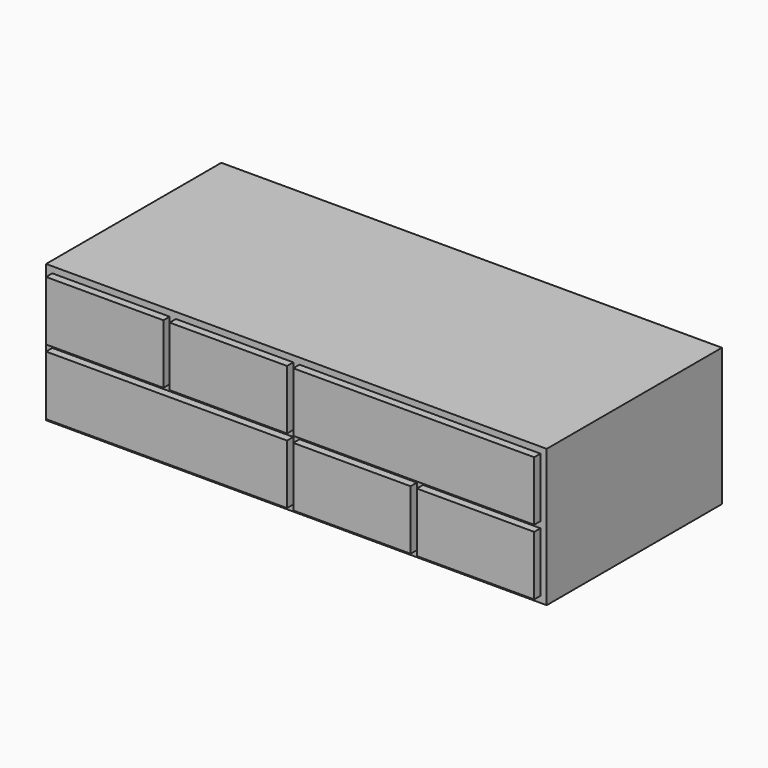
from build123d import *

# Parameters (mm, degrees)
F0_W     = 1600
F0_H     = 440
F0_W_2   = 375
F0_H_2   = 190
F1_DEPTH = 700
F2_W     = 375
F2_H     = 190
F2_W_2   = 770
F3_DEPTH = 25


with BuildPart() as f1:
    # F0 (on Front) → F1 (new body)
    with BuildSketch(Plane.XZ):
        Rectangle(F0_W, F0_H)
        with Locations((-592.5, -105)):
            Rectangle(F0_W_2, F0_H_2, mode=Mode.SUBTRACT)
        with Locations((-197.5, -105)):
            Rectangle(F0_W_2, F0_H_2, mode=Mode.SUBTRACT)
        with Locations((197.5, -105)):
            Rectangle(F0_W_2, F0_H_2, mode=Mode.SUBTRACT)
        with Locations((592.5, -105)):
            Rectangle(F0_W_2, F0_H_2, mode=Mode.SUBTRACT)
        with Locations((-592.5, 105)):
            Rectangle(F0_W_2, F0_H_2, mode=Mode.SUBTRACT)
        with Locations((-197.5, 105)):
            Rectangle(F0_W_2, F0_H_2, mode=Mode.SUBTRACT)
        with Locations((197.5, 105)):
            Rectangle(F0_W_2, F0_H_2, mode=Mode.SUBTRACT)
        with Locations((592.5, 105)):
            Rectangle(F0_W_2, F0_H_2, mode=Mode.SUBTRACT)
    extrude(amount=F1_DEPTH)


with BuildPart() as f3:
    # F2 (on face) → F3 (new body)
    with BuildSketch(Plane.XZ.offset(700)):
        with Locations((-592.5, 105)):
            Rectangle(F2_W, F2_H)
        with Locations((-197.5, 105)):
            Rectangle(F2_W, F2_H)
        with Locations((197.5, -105)):
            Rectangle(F2_W, F2_H)
        with Locations((592.5, -105)):
            Rectangle(F2_W, F2_H)
        with Locations((395, 105)):
            Rectangle(F2_W_2, F2_H)
        with Locations((-395, -105)):
            Rectangle(F2_W_2, F2_H)
    extrude(amount=F3_DEPTH)


solid = Compound([f1.part, f3.part])
